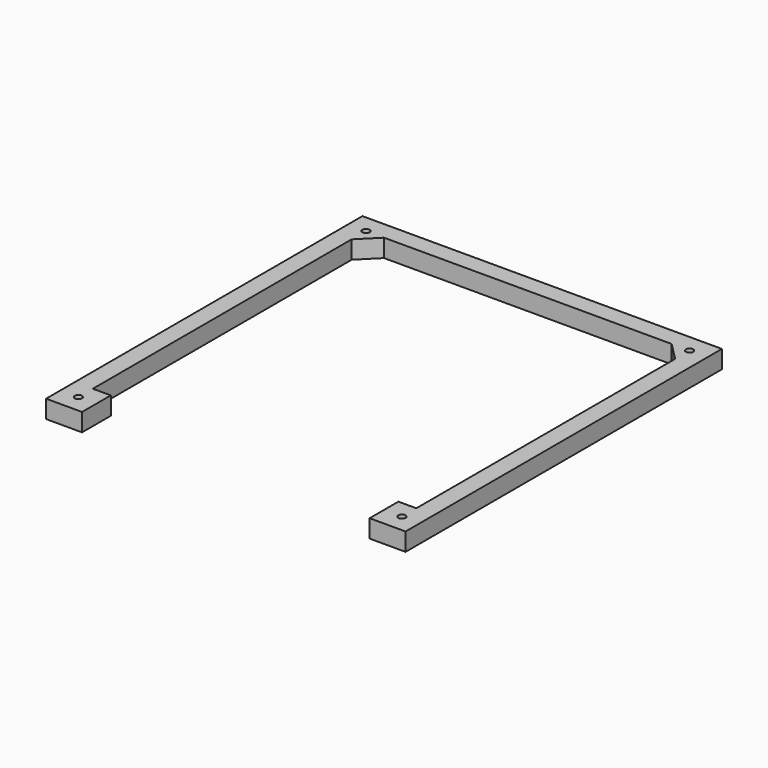
from build123d import *

# Parameters (mm, degrees)
F1_DEPTH = 12.7
F4_DEPTH = 6.35
F6_D     = 2.2606
F6_DEPTH = 12.7
F6_TIP   = 0.6791527577
F7_R     = 2.54
F8_DEPTH = 3.175


with BuildPart() as f1:
    # F0 (on Top) → F1 (new body)
    with BuildSketch(Plane.XY):
        Polygon((-101.6, 127), (101.6, 127), (114.3, 114.3), (114.3, -114.3), (101.6, -114.3), (101.6, -139.7), (114.3, -139.7), (127, -139.7), (127, -114.3), (127, 114.3), (127, 139.7), (101.6, 139.7), (-101.6, 139.7), (-127, 139.7), (-127, 114.3), (-127, -114.3), (-127, -139.7), (-114.3, -139.7), (-101.6, -139.7), (-101.6, -114.3), (-114.3, -114.3), (-114.3, 114.3), align=None)
    extrude(amount=F1_DEPTH)

    # F3 (on face) → F4 (cut)
    with BuildSketch(Plane(origin=(0, 0, 0), x_dir=(1, 0, 0), z_dir=(0, 0, -1))):
        Polygon((-117.475, 121.500738686), (-111.125, 121.500738686), (-107.95, 127), (-111.125, 132.499261314), (-117.475, 132.499261314), (-120.65, 127), align=None)
        Polygon((-107.95, -127), (-111.125, -121.500738686), (-117.475, -121.500738686), (-120.65, -127), (-117.475, -132.499261314), (-111.125, -132.499261314), align=None)
        Polygon((120.65, -127), (117.475, -121.500738686), (111.125, -121.500738686), (107.95, -127), (111.125, -132.499261314), (117.475, -132.499261314), align=None)
        Polygon((120.65, 127), (117.475, 132.499261314), (111.125, 132.499261314), (107.95, 127), (111.125, 121.500738686), (117.475, 121.500738686), align=None)
    extrude(amount=-F4_DEPTH, mode=Mode.SUBTRACT)

    # F6
    with Locations(Plane.XY.offset(12.7)):
        with Locations((-114.3, 127), (-114.3, -127), (114.3, -127), (114.3, 127)):
            Hole(F6_D / 2, depth=F6_DEPTH)
            with Locations((0, 0, -(F6_DEPTH + F6_TIP / 2))):  # 118° drill point
                Cone(0, F6_D / 2, F6_TIP, mode=Mode.SUBTRACT)

    # F7 (on face) → F8 (cut)
    with BuildSketch(Plane.XY.offset(12.7)):
        with Locations((-114.3, 127)):
            Circle(F7_R)
        with Locations((114.3, 127)):
            Circle(F7_R)
        with Locations((114.3, -127)):
            Circle(F7_R)
        with Locations((-114.3, -127)):
            Circle(F7_R)
    extrude(amount=-F8_DEPTH, mode=Mode.SUBTRACT)


solid = f1.part
